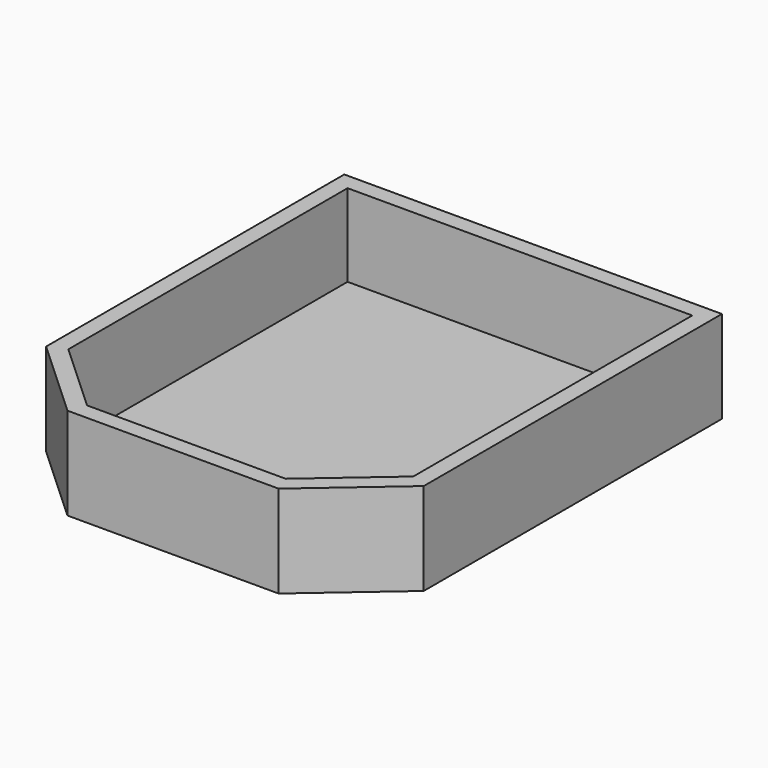
from build123d import *

# Parameters (mm, degrees)
F1_DEPTH = 76.2
F3_DEPTH = 635


with BuildPart() as f1:
    # F0 (on Top) → F1 (new body)
    with BuildSketch(Plane.XY):
        Polygon((2908.3, 0), (0, 0), (0, -2870.2), (622.3, -3441.7), (2247.9, -3441.7), (2908.3, -2870.2), align=None)
    extrude(amount=F1_DEPTH)

    # F2 (on face) → F3 (join)
    with BuildSketch(Plane.XY.offset(76.2)):
        Polygon((2901.95, 0), (0, 0), (0, -2870.2), (622.3, -3441.7), (2247.9, -3441.7), (2908.3, -2870.2), (2908.3, 0), align=None)
        Polygon((127, -2814.402448), (127, -127), (2781.3, -127), (2781.3, -2812.151902), (2200.577754, -3314.7), (671.768446, -3314.7), align=None, mode=Mode.SUBTRACT)
    extrude(amount=F3_DEPTH)


solid = f1.part
